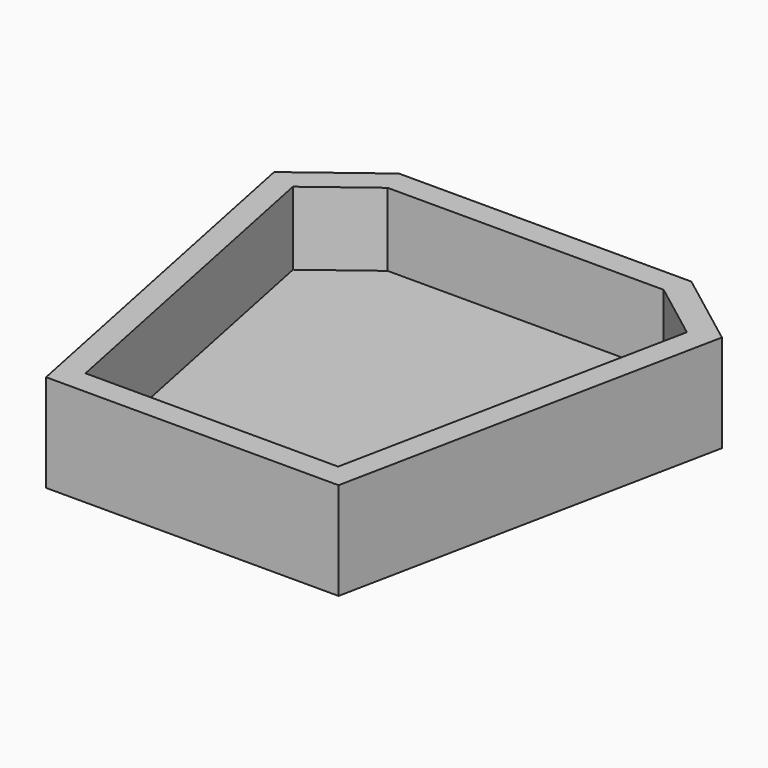
from build123d import *

# Parameters (mm, degrees)
F1_DEPTH = 25.4
F3_DEPTH = 19.05


with BuildPart() as f1:
    # F0 (on Top) → F1 (new body)
    with BuildSketch(Plane.XY):
        Polygon((38.1, 0), (0, 0), (-20.238628, -15.347897), (0, -114.911736), (38.1, -114.911736), align=None)
        Polygon((76.2, 0), (38.1, 0), (38.1, -114.911736), (76.2, -114.911736), (96.438628, -15.347897), align=None)
    extrude(amount=F1_DEPTH)

    # F2 (on face) → F3 (cut)
    with BuildSketch(Plane.XY.offset(25.4)):
        Polygon((2.135453, -6.35), (-13.220632, -17.995238), (5.18908, -108.561736), (71.01092, -108.561736), (89.420632, -17.995238), (74.064547, -6.35), align=None)
    extrude(amount=-F3_DEPTH, mode=Mode.SUBTRACT)


solid = f1.part
